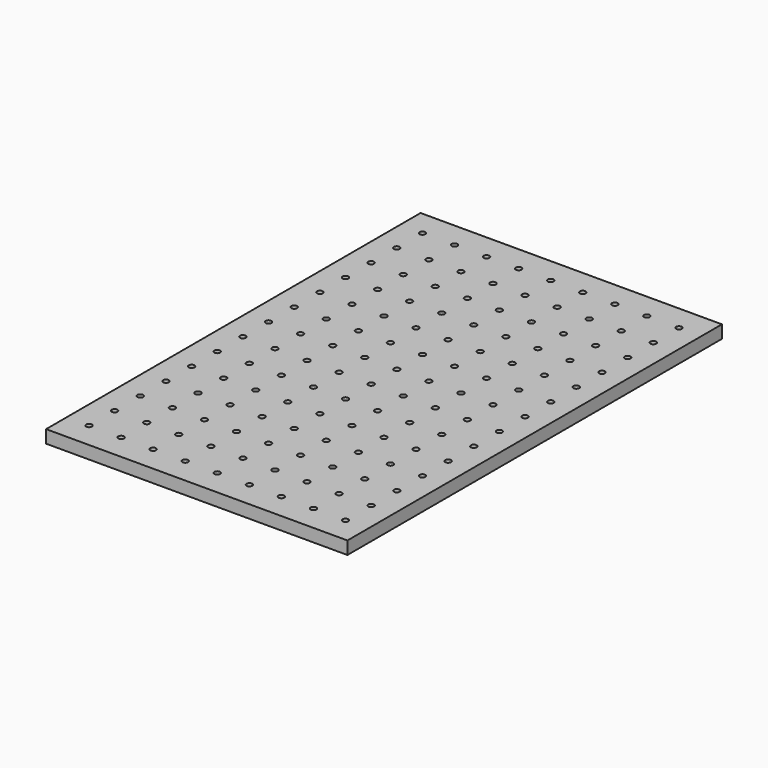
from build123d import *

# Parameters (mm, degrees)
SKETCH_W        = 470
SKETCH_H        = 730
PAD_DEPTH       = 20
POCKET_DEPTH    = 7
SKETCH002_R     = 9
POCKET001_DEPTH = 1.5
SKETCH003_R     = 4.5
POCKET002_DEPTH = 20.001


with BuildPart() as part:
    # Sketch → Pad (new body)
    with BuildSketch(Plane.XY):
        with Locations((235, 365)):
            Rectangle(SKETCH_W, SKETCH_H)
    extrude(amount=-PAD_DEPTH)

    # Sketch001 (on Face6 of Pad) → Pocket (cut)
    with BuildSketch(Plane(origin=(0, 0, -20), x_dir=(1, 0, 0), z_dir=(0, 0, -1))):
        Polygon((41.65, -43.839379), (41.65, -36.160621), (35, -32.321241), (28.35, -36.160621), (28.35, -43.839379), (35, -47.678759), align=None)
        Polygon((91.65, -43.839379), (91.65, -36.160621), (85, -32.321241), (78.35, -36.160621), (78.35, -43.839379), (85, -47.678759), align=None)
        Polygon((141.65, -43.839379), (141.65, -36.160621), (135, -32.321241), (128.35, -36.160621), (128.35, -43.839379), (135, -47.678759), align=None)
        Polygon((191.65, -43.839379), (191.65, -36.160621), (185, -32.321241), (178.35, -36.160621), (178.35, -43.839379), (185, -47.678759), align=None)
        Polygon((241.65, -43.839379), (241.65, -36.160621), (235, -32.321241), (228.35, -36.160621), (228.35, -43.839379), (235, -47.678759), align=None)
        Polygon((291.65, -43.839379), (291.65, -36.160621), (285, -32.321241), (278.35, -36.160621), (278.35, -43.839379), (285, -47.678759), align=None)
        Polygon((341.65, -43.839379), (341.65, -36.160621), (335, -32.321241), (328.35, -36.160621), (328.35, -43.839379), (335, -47.678759), align=None)
        Polygon((391.65, -43.839379), (391.65, -36.160621), (385, -32.321241), (378.35, -36.160621), (378.35, -43.839379), (385, -47.678759), align=None)
        Polygon((441.65, -43.839379), (441.65, -36.160621), (435, -32.321241), (428.35, -36.160621), (428.35, -43.839379), (435, -47.678759), align=None)
        Polygon((41.65, -93.839379), (41.65, -86.160621), (35, -82.321241), (28.35, -86.160621), (28.35, -93.839379), (35, -97.678759), align=None)
        Polygon((91.65, -93.839379), (91.65, -86.160621), (85, -82.321241), (78.35, -86.160621), (78.35, -93.839379), (85, -97.678759), align=None)
        Polygon((141.65, -93.839379), (141.65, -86.160621), (135, -82.321241), (128.35, -86.160621), (128.35, -93.839379), (135, -97.678759), align=None)
        Polygon((191.65, -93.839379), (191.65, -86.160621), (185, -82.321241), (178.35, -86.160621), (178.35, -93.839379), (185, -97.678759), align=None)
        Polygon((241.65, -93.839379), (241.65, -86.160621), (235, -82.321241), (228.35, -86.160621), (228.35, -93.839379), (235, -97.678759), align=None)
        Polygon((291.65, -93.839379), (291.65, -86.160621), (285, -82.321241), (278.35, -86.160621), (278.35, -93.839379), (285, -97.678759), align=None)
        Polygon((341.65, -93.839379), (341.65, -86.160621), (335, -82.321241), (328.35, -86.160621), (328.35, -93.839379), (335, -97.678759), align=None)
        Polygon((391.65, -93.839379), (391.65, -86.160621), (385, -82.321241), (378.35, -86.160621), (378.35, -93.839379), (385, -97.678759), align=None)
        Polygon((441.65, -93.839379), (441.65, -86.160621), (435, -82.321241), (428.35, -86.160621), (428.35, -93.839379), (435, -97.678759), align=None)
        Polygon((41.65, -143.839379), (41.65, -136.160621), (35, -132.321241), (28.35, -136.160621), (28.35, -143.839379), (35, -147.678759), align=None)
        Polygon((91.65, -143.839379), (91.65, -136.160621), (85, -132.321241), (78.35, -136.160621), (78.35, -143.839379), (85, -147.678759), align=None)
        Polygon((141.65, -143.839379), (141.65, -136.160621), (135, -132.321241), (128.35, -136.160621), (128.35, -143.839379), (135, -147.678759), align=None)
        Polygon((191.65, -143.839379), (191.65, -136.160621), (185, -132.321241), (178.35, -136.160621), (178.35, -143.839379), (185, -147.678759), align=None)
        Polygon((241.65, -143.839379), (241.65, -136.160621), (235, -132.321241), (228.35, -136.160621), (228.35, -143.839379), (235, -147.678759), align=None)
        Polygon((291.65, -143.839379), (291.65, -136.160621), (285, -132.321241), (278.35, -136.160621), (278.35, -143.839379), (285, -147.678759), align=None)
        Polygon((341.65, -143.839379), (341.65, -136.160621), (335, -132.321241), (328.35, -136.160621), (328.35, -143.839379), (335, -147.678759), align=None)
        Polygon((391.65, -143.839379), (391.65, -136.160621), (385, -132.321241), (378.35, -136.160621), (378.35, -143.839379), (385, -147.678759), align=None)
        Polygon((441.65, -143.839379), (441.65, -136.160621), (435, -132.321241), (428.35, -136.160621), (428.35, -143.839379), (435, -147.678759), align=None)
        Polygon((41.65, -193.839379), (41.65, -186.160621), (35, -182.321241), (28.35, -186.160621), (28.35, -193.839379), (35, -197.678759), align=None)
        Polygon((91.65, -193.839379), (91.65, -186.160621), (85, -182.321241), (78.35, -186.160621), (78.35, -193.839379), (85, -197.678759), align=None)
        Polygon((141.65, -193.839379), (141.65, -186.160621), (135, -182.321241), (128.35, -186.160621), (128.35, -193.839379), (135, -197.678759), align=None)
        Polygon((191.65, -193.839379), (191.65, -186.160621), (185, -182.321241), (178.35, -186.160621), (178.35, -193.839379), (185, -197.678759), align=None)
        Polygon((241.65, -193.839379), (241.65, -186.160621), (235, -182.321241), (228.35, -186.160621), (228.35, -193.839379), (235, -197.678759), align=None)
        Polygon((291.65, -193.839379), (291.65, -186.160621), (285, -182.321241), (278.35, -186.160621), (278.35, -193.839379), (285, -197.678759), align=None)
        Polygon((341.65, -193.839379), (341.65, -186.160621), (335, -182.321241), (328.35, -186.160621), (328.35, -193.839379), (335, -197.678759), align=None)
        Polygon((391.65, -193.839379), (391.65, -186.160621), (385, -182.321241), (378.35, -186.160621), (378.35, -193.839379), (385, -197.678759), align=None)
        Polygon((441.65, -193.839379), (441.65, -186.160621), (435, -182.321241), (428.35, -186.160621), (428.35, -193.839379), (435, -197.678759), align=None)
        Polygon((41.65, -243.839379), (41.65, -236.160621), (35, -232.321241), (28.35, -236.160621), (28.35, -243.839379), (35, -247.678759), align=None)
        Polygon((91.65, -243.839379), (91.65, -236.160621), (85, -232.321241), (78.35, -236.160621), (78.35, -243.839379), (85, -247.678759), align=None)
        Polygon((141.65, -243.839379), (141.65, -236.160621), (135, -232.321241), (128.35, -236.160621), (128.35, -243.839379), (135, -247.678759), align=None)
        Polygon((191.65, -243.839379), (191.65, -236.160621), (185, -232.321241), (178.35, -236.160621), (178.35, -243.839379), (185, -247.678759), align=None)
        Polygon((241.65, -243.839379), (241.65, -236.160621), (235, -232.321241), (228.35, -236.160621), (228.35, -243.839379), (235, -247.678759), align=None)
        Polygon((291.65, -243.839379), (291.65, -236.160621), (285, -232.321241), (278.35, -236.160621), (278.35, -243.839379), (285, -247.678759), align=None)
        Polygon((341.65, -243.839379), (341.65, -236.160621), (335, -232.321241), (328.35, -236.160621), (328.35, -243.839379), (335, -247.678759), align=None)
        Polygon((391.65, -243.839379), (391.65, -236.160621), (385, -232.321241), (378.35, -236.160621), (378.35, -243.839379), (385, -247.678759), align=None)
        Polygon((441.65, -243.839379), (441.65, -236.160621), (435, -232.321241), (428.35, -236.160621), (428.35, -243.839379), (435, -247.678759), align=None)
        Polygon((41.65, -293.839379), (41.65, -286.160621), (35, -282.321241), (28.35, -286.160621), (28.35, -293.839379), (35, -297.678759), align=None)
        Polygon((91.65, -293.839379), (91.65, -286.160621), (85, -282.321241), (78.35, -286.160621), (78.35, -293.839379), (85, -297.678759), align=None)
        Polygon((141.65, -293.839379), (141.65, -286.160621), (135, -282.321241), (128.35, -286.160621), (128.35, -293.839379), (135, -297.678759), align=None)
        Polygon((191.65, -293.839379), (191.65, -286.160621), (185, -282.321241), (178.35, -286.160621), (178.35, -293.839379), (185, -297.678759), align=None)
        Polygon((241.65, -293.839379), (241.65, -286.160621), (235, -282.321241), (228.35, -286.160621), (228.35, -293.839379), (235, -297.678759), align=None)
        Polygon((291.65, -293.839379), (291.65, -286.160621), (285, -282.321241), (278.35, -286.160621), (278.35, -293.839379), (285, -297.678759), align=None)
        Polygon((341.65, -293.839379), (341.65, -286.160621), (335, -282.321241), (328.35, -286.160621), (328.35, -293.839379), (335, -297.678759), align=None)
        Polygon((391.65, -293.839379), (391.65, -286.160621), (385, -282.321241), (378.35, -286.160621), (378.35, -293.839379), (385, -297.678759), align=None)
        Polygon((441.65, -293.839379), (441.65, -286.160621), (435, -282.321241), (428.35, -286.160621), (428.35, -293.839379), (435, -297.678759), align=None)
        Polygon((41.65, -343.839379), (41.65, -336.160621), (35, -332.321241), (28.35, -336.160621), (28.35, -343.839379), (35, -347.678759), align=None)
        Polygon((91.65, -343.839379), (91.65, -336.160621), (85, -332.321241), (78.35, -336.160621), (78.35, -343.839379), (85, -347.678759), align=None)
        Polygon((141.65, -343.839379), (141.65, -336.160621), (135, -332.321241), (128.35, -336.160621), (128.35, -343.839379), (135, -347.678759), align=None)
        Polygon((191.65, -343.839379), (191.65, -336.160621), (185, -332.321241), (178.35, -336.160621), (178.35, -343.839379), (185, -347.678759), align=None)
        Polygon((241.65, -343.839379), (241.65, -336.160621), (235, -332.321241), (228.35, -336.160621), (228.35, -343.839379), (235, -347.678759), align=None)
        Polygon((291.65, -343.839379), (291.65, -336.160621), (285, -332.321241), (278.35, -336.160621), (278.35, -343.839379), (285, -347.678759), align=None)
        Polygon((341.65, -343.839379), (341.65, -336.160621), (335, -332.321241), (328.35, -336.160621), (328.35, -343.839379), (335, -347.678759), align=None)
        Polygon((391.65, -343.839379), (391.65, -336.160621), (385, -332.321241), (378.35, -336.160621), (378.35, -343.839379), (385, -347.678759), align=None)
        Polygon((441.65, -343.839379), (441.65, -336.160621), (435, -332.321241), (428.35, -336.160621), (428.35, -343.839379), (435, -347.678759), align=None)
        Polygon((41.65, -393.839379), (41.65, -386.160621), (35, -382.321241), (28.35, -386.160621), (28.35, -393.839379), (35, -397.678759), align=None)
        Polygon((91.65, -393.839379), (91.65, -386.160621), (85, -382.321241), (78.35, -386.160621), (78.35, -393.839379), (85, -397.678759), align=None)
        Polygon((141.65, -393.839379), (141.65, -386.160621), (135, -382.321241), (128.35, -386.160621), (128.35, -393.839379), (135, -397.678759), align=None)
        Polygon((191.65, -393.839379), (191.65, -386.160621), (185, -382.321241), (178.35, -386.160621), (178.35, -393.839379), (185, -397.678759), align=None)
        Polygon((241.65, -393.839379), (241.65, -386.160621), (235, -382.321241), (228.35, -386.160621), (228.35, -393.839379), (235, -397.678759), align=None)
        Polygon((291.65, -393.839379), (291.65, -386.160621), (285, -382.321241), (278.35, -386.160621), (278.35, -393.839379), (285, -397.678759), align=None)
        Polygon((341.65, -393.839379), (341.65, -386.160621), (335, -382.321241), (328.35, -386.160621), (328.35, -393.839379), (335, -397.678759), align=None)
        Polygon((391.65, -393.839379), (391.65, -386.160621), (385, -382.321241), (378.35, -386.160621), (378.35, -393.839379), (385, -397.678759), align=None)
        Polygon((441.65, -393.839379), (441.65, -386.160621), (435, -382.321241), (428.35, -386.160621), (428.35, -393.839379), (435, -397.678759), align=None)
        Polygon((41.65, -443.839379), (41.65, -436.160621), (35, -432.321241), (28.35, -436.160621), (28.35, -443.839379), (35, -447.678759), align=None)
        Polygon((91.65, -443.839379), (91.65, -436.160621), (85, -432.321241), (78.35, -436.160621), (78.35, -443.839379), (85, -447.678759), align=None)
        Polygon((141.65, -443.839379), (141.65, -436.160621), (135, -432.321241), (128.35, -436.160621), (128.35, -443.839379), (135, -447.678759), align=None)
        Polygon((191.65, -443.839379), (191.65, -436.160621), (185, -432.321241), (178.35, -436.160621), (178.35, -443.839379), (185, -447.678759), align=None)
        Polygon((241.65, -443.839379), (241.65, -436.160621), (235, -432.321241), (228.35, -436.160621), (228.35, -443.839379), (235, -447.678759), align=None)
        Polygon((291.65, -443.839379), (291.65, -436.160621), (285, -432.321241), (278.35, -436.160621), (278.35, -443.839379), (285, -447.678759), align=None)
        Polygon((341.65, -443.839379), (341.65, -436.160621), (335, -432.321241), (328.35, -436.160621), (328.35, -443.839379), (335, -447.678759), align=None)
        Polygon((391.65, -443.839379), (391.65, -436.160621), (385, -432.321241), (378.35, -436.160621), (378.35, -443.839379), (385, -447.678759), align=None)
        Polygon((441.65, -443.839379), (441.65, -436.160621), (435, -432.321241), (428.35, -436.160621), (428.35, -443.839379), (435, -447.678759), align=None)
        Polygon((41.65, -493.839379), (41.65, -486.160621), (35, -482.321241), (28.35, -486.160621), (28.35, -493.839379), (35, -497.678759), align=None)
        Polygon((91.65, -493.839379), (91.65, -486.160621), (85, -482.321241), (78.35, -486.160621), (78.35, -493.839379), (85, -497.678759), align=None)
        Polygon((141.65, -493.839379), (141.65, -486.160621), (135, -482.321241), (128.35, -486.160621), (128.35, -493.839379), (135, -497.678759), align=None)
        Polygon((191.65, -493.839379), (191.65, -486.160621), (185, -482.321241), (178.35, -486.160621), (178.35, -493.839379), (185, -497.678759), align=None)
        Polygon((241.65, -493.839379), (241.65, -486.160621), (235, -482.321241), (228.35, -486.160621), (228.35, -493.839379), (235, -497.678759), align=None)
        Polygon((291.65, -493.839379), (291.65, -486.160621), (285, -482.321241), (278.35, -486.160621), (278.35, -493.839379), (285, -497.678759), align=None)
        Polygon((341.65, -493.839379), (341.65, -486.160621), (335, -482.321241), (328.35, -486.160621), (328.35, -493.839379), (335, -497.678759), align=None)
        Polygon((391.65, -493.839379), (391.65, -486.160621), (385, -482.321241), (378.35, -486.160621), (378.35, -493.839379), (385, -497.678759), align=None)
        Polygon((441.65, -493.839379), (441.65, -486.160621), (435, -482.321241), (428.35, -486.160621), (428.35, -493.839379), (435, -497.678759), align=None)
        Polygon((41.65, -543.839379), (41.65, -536.160621), (35, -532.321241), (28.35, -536.160621), (28.35, -543.839379), (35, -547.678759), align=None)
        Polygon((91.65, -543.839379), (91.65, -536.160621), (85, -532.321241), (78.35, -536.160621), (78.35, -543.839379), (85, -547.678759), align=None)
        Polygon((141.65, -543.839379), (141.65, -536.160621), (135, -532.321241), (128.35, -536.160621), (128.35, -543.839379), (135, -547.678759), align=None)
        Polygon((191.65, -543.839379), (191.65, -536.160621), (185, -532.321241), (178.35, -536.160621), (178.35, -543.839379), (185, -547.678759), align=None)
        Polygon((241.65, -543.839379), (241.65, -536.160621), (235, -532.321241), (228.35, -536.160621), (228.35, -543.839379), (235, -547.678759), align=None)
        Polygon((291.65, -543.839379), (291.65, -536.160621), (285, -532.321241), (278.35, -536.160621), (278.35, -543.839379), (285, -547.678759), align=None)
        Polygon((341.65, -543.839379), (341.65, -536.160621), (335, -532.321241), (328.35, -536.160621), (328.35, -543.839379), (335, -547.678759), align=None)
        Polygon((391.65, -543.839379), (391.65, -536.160621), (385, -532.321241), (378.35, -536.160621), (378.35, -543.839379), (385, -547.678759), align=None)
        Polygon((441.65, -543.839379), (441.65, -536.160621), (435, -532.321241), (428.35, -536.160621), (428.35, -543.839379), (435, -547.678759), align=None)
        Polygon((41.65, -593.839379), (41.65, -586.160621), (35, -582.321241), (28.35, -586.160621), (28.35, -593.839379), (35, -597.678759), align=None)
        Polygon((91.65, -593.839379), (91.65, -586.160621), (85, -582.321241), (78.35, -586.160621), (78.35, -593.839379), (85, -597.678759), align=None)
        Polygon((141.65, -593.839379), (141.65, -586.160621), (135, -582.321241), (128.35, -586.160621), (128.35, -593.839379), (135, -597.678759), align=None)
        Polygon((191.65, -593.839379), (191.65, -586.160621), (185, -582.321241), (178.35, -586.160621), (178.35, -593.839379), (185, -597.678759), align=None)
        Polygon((241.65, -593.839379), (241.65, -586.160621), (235, -582.321241), (228.35, -586.160621), (228.35, -593.839379), (235, -597.678759), align=None)
        Polygon((291.65, -593.839379), (291.65, -586.160621), (285, -582.321241), (278.35, -586.160621), (278.35, -593.839379), (285, -597.678759), align=None)
        Polygon((341.65, -593.839379), (341.65, -586.160621), (335, -582.321241), (328.35, -586.160621), (328.35, -593.839379), (335, -597.678759), align=None)
        Polygon((391.65, -593.839379), (391.65, -586.160621), (385, -582.321241), (378.35, -586.160621), (378.35, -593.839379), (385, -597.678759), align=None)
        Polygon((441.65, -593.839379), (441.65, -586.160621), (435, -582.321241), (428.35, -586.160621), (428.35, -593.839379), (435, -597.678759), align=None)
        Polygon((41.65, -643.839379), (41.65, -636.160621), (35, -632.321241), (28.35, -636.160621), (28.35, -643.839379), (35, -647.678759), align=None)
        Polygon((91.65, -643.839379), (91.65, -636.160621), (85, -632.321241), (78.35, -636.160621), (78.35, -643.839379), (85, -647.678759), align=None)
        Polygon((141.65, -643.839379), (141.65, -636.160621), (135, -632.321241), (128.35, -636.160621), (128.35, -643.839379), (135, -647.678759), align=None)
        Polygon((191.65, -643.839379), (191.65, -636.160621), (185, -632.321241), (178.35, -636.160621), (178.35, -643.839379), (185, -647.678759), align=None)
        Polygon((241.65, -643.839379), (241.65, -636.160621), (235, -632.321241), (228.35, -636.160621), (228.35, -643.839379), (235, -647.678759), align=None)
        Polygon((291.65, -643.839379), (291.65, -636.160621), (285, -632.321241), (278.35, -636.160621), (278.35, -643.839379), (285, -647.678759), align=None)
        Polygon((341.65, -643.839379), (341.65, -636.160621), (335, -632.321241), (328.35, -636.160621), (328.35, -643.839379), (335, -647.678759), align=None)
        Polygon((391.65, -643.839379), (391.65, -636.160621), (385, -632.321241), (378.35, -636.160621), (378.35, -643.839379), (385, -647.678759), align=None)
        Polygon((441.65, -643.839379), (441.65, -636.160621), (435, -632.321241), (428.35, -636.160621), (428.35, -643.839379), (435, -647.678759), align=None)
        Polygon((41.65, -693.839379), (41.65, -686.160621), (35, -682.321241), (28.35, -686.160621), (28.35, -693.839379), (35, -697.678759), align=None)
        Polygon((91.65, -693.839379), (91.65, -686.160621), (85, -682.321241), (78.35, -686.160621), (78.35, -693.839379), (85, -697.678759), align=None)
        Polygon((141.65, -693.839379), (141.65, -686.160621), (135, -682.321241), (128.35, -686.160621), (128.35, -693.839379), (135, -697.678759), align=None)
        Polygon((191.65, -693.839379), (191.65, -686.160621), (185, -682.321241), (178.35, -686.160621), (178.35, -693.839379), (185, -697.678759), align=None)
        Polygon((241.65, -693.839379), (241.65, -686.160621), (235, -682.321241), (228.35, -686.160621), (228.35, -693.839379), (235, -697.678759), align=None)
        Polygon((291.65, -693.839379), (291.65, -686.160621), (285, -682.321241), (278.35, -686.160621), (278.35, -693.839379), (285, -697.678759), align=None)
        Polygon((341.65, -693.839379), (341.65, -686.160621), (335, -682.321241), (328.35, -686.160621), (328.35, -693.839379), (335, -697.678759), align=None)
        Polygon((391.65, -693.839379), (391.65, -686.160621), (385, -682.321241), (378.35, -686.160621), (378.35, -693.839379), (385, -697.678759), align=None)
        Polygon((441.65, -693.839379), (441.65, -686.160621), (435, -682.321241), (428.35, -686.160621), (428.35, -693.839379), (435, -697.678759), align=None)
    extrude(amount=-POCKET_DEPTH, mode=Mode.SUBTRACT)

    # Sketch002 (on Face5 of Pocket) → Pocket001 (cut)
    with BuildSketch(Plane(origin=(0, 0, -20), x_dir=(1, 0, 0), z_dir=(0, 0, -1))):
        with Locations((35, -40)):
            Circle(SKETCH002_R)
        with Locations((85, -40)):
            Circle(SKETCH002_R)
        with Locations((135, -40)):
            Circle(SKETCH002_R)
        with Locations((185, -40)):
            Circle(SKETCH002_R)
        with Locations((235, -40)):
            Circle(SKETCH002_R)
        with Locations((285, -40)):
            Circle(SKETCH002_R)
        with Locations((335, -40)):
            Circle(SKETCH002_R)
        with Locations((385, -40)):
            Circle(SKETCH002_R)
        with Locations((435, -40)):
            Circle(SKETCH002_R)
        with Locations((35, -90)):
            Circle(SKETCH002_R)
        with Locations((85, -90)):
            Circle(SKETCH002_R)
        with Locations((135, -90)):
            Circle(SKETCH002_R)
        with Locations((185, -90)):
            Circle(SKETCH002_R)
        with Locations((235, -90)):
            Circle(SKETCH002_R)
        with Locations((285, -90)):
            Circle(SKETCH002_R)
        with Locations((335, -90)):
            Circle(SKETCH002_R)
        with Locations((385, -90)):
            Circle(SKETCH002_R)
        with Locations((435, -90)):
            Circle(SKETCH002_R)
        with Locations((35, -140)):
            Circle(SKETCH002_R)
        with Locations((85, -140)):
            Circle(SKETCH002_R)
        with Locations((135, -140)):
            Circle(SKETCH002_R)
        with Locations((185, -140)):
            Circle(SKETCH002_R)
        with Locations((235, -140)):
            Circle(SKETCH002_R)
        with Locations((285, -140)):
            Circle(SKETCH002_R)
        with Locations((335, -140)):
            Circle(SKETCH002_R)
        with Locations((385, -140)):
            Circle(SKETCH002_R)
        with Locations((435, -140)):
            Circle(SKETCH002_R)
        with Locations((35, -190)):
            Circle(SKETCH002_R)
        with Locations((85, -190)):
            Circle(SKETCH002_R)
        with Locations((135, -190)):
            Circle(SKETCH002_R)
        with Locations((185, -190)):
            Circle(SKETCH002_R)
        with Locations((235, -190)):
            Circle(SKETCH002_R)
        with Locations((285, -190)):
            Circle(SKETCH002_R)
        with Locations((335, -190)):
            Circle(SKETCH002_R)
        with Locations((385, -190)):
            Circle(SKETCH002_R)
        with Locations((435, -190)):
            Circle(SKETCH002_R)
        with Locations((35, -240)):
            Circle(SKETCH002_R)
        with Locations((85, -240)):
            Circle(SKETCH002_R)
        with Locations((135, -240)):
            Circle(SKETCH002_R)
        with Locations((185, -240)):
            Circle(SKETCH002_R)
        with Locations((235, -240)):
            Circle(SKETCH002_R)
        with Locations((285, -240)):
            Circle(SKETCH002_R)
        with Locations((335, -240)):
            Circle(SKETCH002_R)
        with Locations((385, -240)):
            Circle(SKETCH002_R)
        with Locations((435, -240)):
            Circle(SKETCH002_R)
        with Locations((35, -290)):
            Circle(SKETCH002_R)
        with Locations((85, -290)):
            Circle(SKETCH002_R)
        with Locations((135, -290)):
            Circle(SKETCH002_R)
        with Locations((185, -290)):
            Circle(SKETCH002_R)
        with Locations((235, -290)):
            Circle(SKETCH002_R)
        with Locations((285, -290)):
            Circle(SKETCH002_R)
        with Locations((335, -290)):
            Circle(SKETCH002_R)
        with Locations((385, -290)):
            Circle(SKETCH002_R)
        with Locations((435, -290)):
            Circle(SKETCH002_R)
        with Locations((35, -340)):
            Circle(SKETCH002_R)
        with Locations((85, -340)):
            Circle(SKETCH002_R)
        with Locations((135, -340)):
            Circle(SKETCH002_R)
        with Locations((185, -340)):
            Circle(SKETCH002_R)
        with Locations((235, -340)):
            Circle(SKETCH002_R)
        with Locations((285, -340)):
            Circle(SKETCH002_R)
        with Locations((335, -340)):
            Circle(SKETCH002_R)
        with Locations((385, -340)):
            Circle(SKETCH002_R)
        with Locations((435, -340)):
            Circle(SKETCH002_R)
        with Locations((35, -390)):
            Circle(SKETCH002_R)
        with Locations((85, -390)):
            Circle(SKETCH002_R)
        with Locations((135, -390)):
            Circle(SKETCH002_R)
        with Locations((185, -390)):
            Circle(SKETCH002_R)
        with Locations((235, -390)):
            Circle(SKETCH002_R)
        with Locations((285, -390)):
            Circle(SKETCH002_R)
        with Locations((335, -390)):
            Circle(SKETCH002_R)
        with Locations((385, -390)):
            Circle(SKETCH002_R)
        with Locations((435, -390)):
            Circle(SKETCH002_R)
        with Locations((35, -440)):
            Circle(SKETCH002_R)
        with Locations((85, -440)):
            Circle(SKETCH002_R)
        with Locations((135, -440)):
            Circle(SKETCH002_R)
        with Locations((185, -440)):
            Circle(SKETCH002_R)
        with Locations((235, -440)):
            Circle(SKETCH002_R)
        with Locations((285, -440)):
            Circle(SKETCH002_R)
        with Locations((335, -440)):
            Circle(SKETCH002_R)
        with Locations((385, -440)):
            Circle(SKETCH002_R)
        with Locations((435, -440)):
            Circle(SKETCH002_R)
        with Locations((35, -490)):
            Circle(SKETCH002_R)
        with Locations((85, -490)):
            Circle(SKETCH002_R)
        with Locations((135, -490)):
            Circle(SKETCH002_R)
        with Locations((185, -490)):
            Circle(SKETCH002_R)
        with Locations((235, -490)):
            Circle(SKETCH002_R)
        with Locations((285, -490)):
            Circle(SKETCH002_R)
        with Locations((335, -490)):
            Circle(SKETCH002_R)
        with Locations((385, -490)):
            Circle(SKETCH002_R)
        with Locations((435, -490)):
            Circle(SKETCH002_R)
        with Locations((35, -540)):
            Circle(SKETCH002_R)
        with Locations((85, -540)):
            Circle(SKETCH002_R)
        with Locations((135, -540)):
            Circle(SKETCH002_R)
        with Locations((185, -540)):
            Circle(SKETCH002_R)
        with Locations((235, -540)):
            Circle(SKETCH002_R)
        with Locations((285, -540)):
            Circle(SKETCH002_R)
        with Locations((335, -540)):
            Circle(SKETCH002_R)
        with Locations((385, -540)):
            Circle(SKETCH002_R)
        with Locations((435, -540)):
            Circle(SKETCH002_R)
        with Locations((35, -590)):
            Circle(SKETCH002_R)
        with Locations((85, -590)):
            Circle(SKETCH002_R)
        with Locations((135, -590)):
            Circle(SKETCH002_R)
        with Locations((185, -590)):
            Circle(SKETCH002_R)
        with Locations((235, -590)):
            Circle(SKETCH002_R)
        with Locations((285, -590)):
            Circle(SKETCH002_R)
        with Locations((335, -590)):
            Circle(SKETCH002_R)
        with Locations((385, -590)):
            Circle(SKETCH002_R)
        with Locations((435, -590)):
            Circle(SKETCH002_R)
        with Locations((35, -640)):
            Circle(SKETCH002_R)
        with Locations((85, -640)):
            Circle(SKETCH002_R)
        with Locations((135, -640)):
            Circle(SKETCH002_R)
        with Locations((185, -640)):
            Circle(SKETCH002_R)
        with Locations((235, -640)):
            Circle(SKETCH002_R)
        with Locations((285, -640)):
            Circle(SKETCH002_R)
        with Locations((335, -640)):
            Circle(SKETCH002_R)
        with Locations((385, -640)):
            Circle(SKETCH002_R)
        with Locations((435, -640)):
            Circle(SKETCH002_R)
        with Locations((35, -690)):
            Circle(SKETCH002_R)
        with Locations((85, -690)):
            Circle(SKETCH002_R)
        with Locations((135, -690)):
            Circle(SKETCH002_R)
        with Locations((185, -690)):
            Circle(SKETCH002_R)
        with Locations((235, -690)):
            Circle(SKETCH002_R)
        with Locations((285, -690)):
            Circle(SKETCH002_R)
        with Locations((335, -690)):
            Circle(SKETCH002_R)
        with Locations((385, -690)):
            Circle(SKETCH002_R)
        with Locations((435, -690)):
            Circle(SKETCH002_R)
    extrude(amount=-POCKET001_DEPTH, mode=Mode.SUBTRACT)

    # Sketch003 (on Face5 of Pocket001) → Pocket002 (cut, through all)
    with BuildSketch(Plane(origin=(0, 0, -20), x_dir=(1, 0, 0), z_dir=(0, 0, -1))):
        with Locations((35, -40)):
            Circle(SKETCH003_R)
        with Locations((85, -40)):
            Circle(SKETCH003_R)
        with Locations((135, -40)):
            Circle(SKETCH003_R)
        with Locations((185, -40)):
            Circle(SKETCH003_R)
        with Locations((235, -40)):
            Circle(SKETCH003_R)
        with Locations((285, -40)):
            Circle(SKETCH003_R)
        with Locations((335, -40)):
            Circle(SKETCH003_R)
        with Locations((385, -40)):
            Circle(SKETCH003_R)
        with Locations((435, -40)):
            Circle(SKETCH003_R)
        with Locations((35, -90)):
            Circle(SKETCH003_R)
        with Locations((85, -90)):
            Circle(SKETCH003_R)
        with Locations((135, -90)):
            Circle(SKETCH003_R)
        with Locations((185, -90)):
            Circle(SKETCH003_R)
        with Locations((235, -90)):
            Circle(SKETCH003_R)
        with Locations((285, -90)):
            Circle(SKETCH003_R)
        with Locations((335, -90)):
            Circle(SKETCH003_R)
        with Locations((385, -90)):
            Circle(SKETCH003_R)
        with Locations((435, -90)):
            Circle(SKETCH003_R)
        with Locations((35, -140)):
            Circle(SKETCH003_R)
        with Locations((85, -140)):
            Circle(SKETCH003_R)
        with Locations((135, -140)):
            Circle(SKETCH003_R)
        with Locations((185, -140)):
            Circle(SKETCH003_R)
        with Locations((235, -140)):
            Circle(SKETCH003_R)
        with Locations((285, -140)):
            Circle(SKETCH003_R)
        with Locations((335, -140)):
            Circle(SKETCH003_R)
        with Locations((385, -140)):
            Circle(SKETCH003_R)
        with Locations((435, -140)):
            Circle(SKETCH003_R)
        with Locations((35, -190)):
            Circle(SKETCH003_R)
        with Locations((85, -190)):
            Circle(SKETCH003_R)
        with Locations((135, -190)):
            Circle(SKETCH003_R)
        with Locations((185, -190)):
            Circle(SKETCH003_R)
        with Locations((235, -190)):
            Circle(SKETCH003_R)
        with Locations((285, -190)):
            Circle(SKETCH003_R)
        with Locations((335, -190)):
            Circle(SKETCH003_R)
        with Locations((385, -190)):
            Circle(SKETCH003_R)
        with Locations((435, -190)):
            Circle(SKETCH003_R)
        with Locations((35, -240)):
            Circle(SKETCH003_R)
        with Locations((85, -240)):
            Circle(SKETCH003_R)
        with Locations((135, -240)):
            Circle(SKETCH003_R)
        with Locations((185, -240)):
            Circle(SKETCH003_R)
        with Locations((235, -240)):
            Circle(SKETCH003_R)
        with Locations((285, -240)):
            Circle(SKETCH003_R)
        with Locations((335, -240)):
            Circle(SKETCH003_R)
        with Locations((385, -240)):
            Circle(SKETCH003_R)
        with Locations((435, -240)):
            Circle(SKETCH003_R)
        with Locations((35, -290)):
            Circle(SKETCH003_R)
        with Locations((85, -290)):
            Circle(SKETCH003_R)
        with Locations((135, -290)):
            Circle(SKETCH003_R)
        with Locations((185, -290)):
            Circle(SKETCH003_R)
        with Locations((235, -290)):
            Circle(SKETCH003_R)
        with Locations((285, -290)):
            Circle(SKETCH003_R)
        with Locations((335, -290)):
            Circle(SKETCH003_R)
        with Locations((385, -290)):
            Circle(SKETCH003_R)
        with Locations((435, -290)):
            Circle(SKETCH003_R)
        with Locations((35, -340)):
            Circle(SKETCH003_R)
        with Locations((85, -340)):
            Circle(SKETCH003_R)
        with Locations((135, -340)):
            Circle(SKETCH003_R)
        with Locations((185, -340)):
            Circle(SKETCH003_R)
        with Locations((235, -340)):
            Circle(SKETCH003_R)
        with Locations((285, -340)):
            Circle(SKETCH003_R)
        with Locations((335, -340)):
            Circle(SKETCH003_R)
        with Locations((385, -340)):
            Circle(SKETCH003_R)
        with Locations((435, -340)):
            Circle(SKETCH003_R)
        with Locations((35, -390)):
            Circle(SKETCH003_R)
        with Locations((85, -390)):
            Circle(SKETCH003_R)
        with Locations((135, -390)):
            Circle(SKETCH003_R)
        with Locations((185, -390)):
            Circle(SKETCH003_R)
        with Locations((235, -390)):
            Circle(SKETCH003_R)
        with Locations((285, -390)):
            Circle(SKETCH003_R)
        with Locations((335, -390)):
            Circle(SKETCH003_R)
        with Locations((385, -390)):
            Circle(SKETCH003_R)
        with Locations((435, -390)):
            Circle(SKETCH003_R)
        with Locations((35, -440)):
            Circle(SKETCH003_R)
        with Locations((85, -440)):
            Circle(SKETCH003_R)
        with Locations((135, -440)):
            Circle(SKETCH003_R)
        with Locations((185, -440)):
            Circle(SKETCH003_R)
        with Locations((235, -440)):
            Circle(SKETCH003_R)
        with Locations((285, -440)):
            Circle(SKETCH003_R)
        with Locations((335, -440)):
            Circle(SKETCH003_R)
        with Locations((385, -440)):
            Circle(SKETCH003_R)
        with Locations((435, -440)):
            Circle(SKETCH003_R)
        with Locations((35, -490)):
            Circle(SKETCH003_R)
        with Locations((85, -490)):
            Circle(SKETCH003_R)
        with Locations((135, -490)):
            Circle(SKETCH003_R)
        with Locations((185, -490)):
            Circle(SKETCH003_R)
        with Locations((235, -490)):
            Circle(SKETCH003_R)
        with Locations((285, -490)):
            Circle(SKETCH003_R)
        with Locations((335, -490)):
            Circle(SKETCH003_R)
        with Locations((385, -490)):
            Circle(SKETCH003_R)
        with Locations((435, -490)):
            Circle(SKETCH003_R)
        with Locations((35, -540)):
            Circle(SKETCH003_R)
        with Locations((85, -540)):
            Circle(SKETCH003_R)
        with Locations((135, -540)):
            Circle(SKETCH003_R)
        with Locations((185, -540)):
            Circle(SKETCH003_R)
        with Locations((235, -540)):
            Circle(SKETCH003_R)
        with Locations((285, -540)):
            Circle(SKETCH003_R)
        with Locations((335, -540)):
            Circle(SKETCH003_R)
        with Locations((385, -540)):
            Circle(SKETCH003_R)
        with Locations((435, -540)):
            Circle(SKETCH003_R)
        with Locations((35, -590)):
            Circle(SKETCH003_R)
        with Locations((85, -590)):
            Circle(SKETCH003_R)
        with Locations((135, -590)):
            Circle(SKETCH003_R)
        with Locations((185, -590)):
            Circle(SKETCH003_R)
        with Locations((235, -590)):
            Circle(SKETCH003_R)
        with Locations((285, -590)):
            Circle(SKETCH003_R)
        with Locations((335, -590)):
            Circle(SKETCH003_R)
        with Locations((385, -590)):
            Circle(SKETCH003_R)
        with Locations((435, -590)):
            Circle(SKETCH003_R)
        with Locations((35, -640)):
            Circle(SKETCH003_R)
        with Locations((85, -640)):
            Circle(SKETCH003_R)
        with Locations((135, -640)):
            Circle(SKETCH003_R)
        with Locations((185, -640)):
            Circle(SKETCH003_R)
        with Locations((235, -640)):
            Circle(SKETCH003_R)
        with Locations((285, -640)):
            Circle(SKETCH003_R)
        with Locations((335, -640)):
            Circle(SKETCH003_R)
        with Locations((385, -640)):
            Circle(SKETCH003_R)
        with Locations((435, -640)):
            Circle(SKETCH003_R)
        with Locations((35, -690)):
            Circle(SKETCH003_R)
        with Locations((85, -690)):
            Circle(SKETCH003_R)
        with Locations((135, -690)):
            Circle(SKETCH003_R)
        with Locations((185, -690)):
            Circle(SKETCH003_R)
        with Locations((235, -690)):
            Circle(SKETCH003_R)
        with Locations((285, -690)):
            Circle(SKETCH003_R)
        with Locations((335, -690)):
            Circle(SKETCH003_R)
        with Locations((385, -690)):
            Circle(SKETCH003_R)
        with Locations((435, -690)):
            Circle(SKETCH003_R)
    extrude(amount=-POCKET002_DEPTH, mode=Mode.SUBTRACT)


solid = part.part
